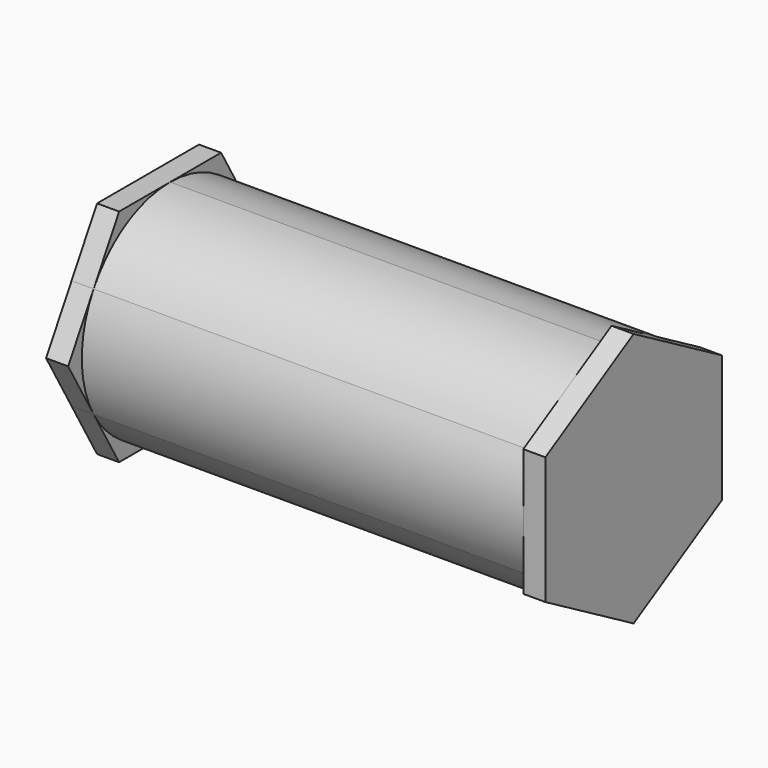
from build123d import *

# Parameters (mm, degrees)
F1_DEPTH = 25.4
F3_DEPTH = 1.27
F4_DEPTH = 1.27


with BuildPart() as f1:
    # F0 (on Right) → F1 (new body)
    with BuildSketch(Plane.YZ):
        with BuildLine():
            ThreePointArc((5.4992613166, -3.1749999956), (6.1336289976, -1.6435009339), (6.35, 0))
            ThreePointArc((6.35, 0), (6.1336289982, 1.6435009317), (5.4992613189, 3.1749999916))
            ThreePointArc((5.4992613189, 3.1749999916), (3.1750000042, 5.4992613116), (0, 6.35))
            ThreePointArc((0, 6.35), (-3.1750000022, 5.4992613128), (-5.4992613166, 3.1749999956))
            ThreePointArc((-5.4992613166, 3.1749999956), (-6.35, 5.57e-08), (-5.4992613723, -3.1749998991))
            ThreePointArc((-5.4992613723, -3.1749998991), (-3.1750000504, -5.4992612849), (0, -6.35))
            ThreePointArc((0, -6.35), (3.1750000022, -5.4992613128), (5.4992613166, -3.1749999956))
        make_face()
    extrude(amount=F1_DEPTH)

    # F2 (on face) → F3 (join)
    with BuildSketch(Plane.YZ.offset(25.4)):
        with BuildLine():
            ThreePointArc((3.1750003445, -5.4992611151), (5.4992614135, -3.1749998278), (6.35, 0))
            ThreePointArc((6.35, 0), (5.4992613234, 3.1749999838), (3.1750000324, 5.4992612953))
            ThreePointArc((3.1750000324, 5.4992612953), (5.57e-08, 6.35), (-3.174999936, 5.499261351))
            ThreePointArc((-3.174999936, 5.499261351), (-5.4992612955, 3.175000032), (-6.35, 0))
            ThreePointArc((-6.35, 0), (-5.4992613963, -3.1749998576), (-3.1750002849, -5.4992611496))
            ThreePointArc((-3.1750002849, -5.4992611496), (3.44e-08, -6.35), (3.1750003445, -5.4992611151))
        make_face()
        with BuildLine():
            Line((6.35, 0), (6.35, 3.6661742094))
            Line((6.35, 3.6661742094), (3.1750000324, 5.4992612953))
            ThreePointArc((3.1750000324, 5.4992612953), (5.4992613234, 3.1749999838), (6.35, 0))
        make_face()
        with BuildLine():
            Line((-6.35, -3.6661742094), (-3.1750002849, -5.4992611496))
            ThreePointArc((-3.1750002849, -5.4992611496), (-5.4992613963, -3.1749998576), (-6.35, 0))
            Line((-6.35, 0), (-6.35, -3.6661742094))
        make_face()
        with BuildLine():
            Line((6.35, -3.6661742094), (6.35, 0))
            ThreePointArc((6.35, 0), (5.4992614135, -3.1749998278), (3.1750003445, -5.4992611151))
            Line((3.1750003445, -5.4992611151), (6.35, -3.6661742094))
        make_face()
        with BuildLine():
            ThreePointArc((-3.174999936, 5.499261351), (5.57e-08, 6.35), (3.1750000324, 5.4992612953))
            Line((3.1750000324, 5.4992612953), (0, 7.3323484187))
            Line((0, 7.3323484187), (-3.174999936, 5.499261351))
        make_face()
        with BuildLine():
            Line((0, -7.3323484187), (3.1750003445, -5.4992611151))
            ThreePointArc((3.1750003445, -5.4992611151), (3.44e-08, -6.35), (-3.1750002849, -5.4992611496))
            Line((-3.1750002849, -5.4992611496), (0, -7.3323484187))
        make_face()
        with BuildLine():
            ThreePointArc((-6.35, 0), (-5.4992612955, 3.175000032), (-3.174999936, 5.499261351))
            Line((-3.174999936, 5.499261351), (-6.35, 3.6661742094))
            Line((-6.35, 3.6661742094), (-6.35, 0))
        make_face()
    extrude(amount=F3_DEPTH)

    # F0 (on Right) → F4 (join)
    with BuildSketch(Plane.YZ):
        with BuildLine():
            ThreePointArc((5.4992613189, 3.1749999916), (6.1336289982, 1.6435009317), (6.35, 0))
            ThreePointArc((6.35, 0), (6.1336289976, -1.6435009339), (5.4992613166, -3.1749999956))
            Line((5.4992613166, -3.1749999956), (7.3323484187, 0))
            Line((7.3323484187, 0), (5.4992613189, 3.1749999916))
        make_face()
        with BuildLine():
            ThreePointArc((-5.4992613723, -3.1749998991), (-6.35, 5.57e-08), (-5.4992613166, 3.1749999956))
            Line((-5.4992613166, 3.1749999956), (-7.3323484187, 0))
            Line((-7.3323484187, 0), (-5.4992613723, -3.1749998991))
        make_face()
        with BuildLine():
            ThreePointArc((0, 6.35), (3.1750000042, 5.4992613116), (5.4992613189, 3.1749999916))
            Line((5.4992613189, 3.1749999916), (3.6661742094, 6.35))
            Line((3.6661742094, 6.35), (0, 6.35))
        make_face()
        with BuildLine():
            Line((3.6661742094, -6.35), (5.4992613166, -3.1749999956))
            ThreePointArc((5.4992613166, -3.1749999956), (3.1750000022, -5.4992613128), (0, -6.35))
            Line((0, -6.35), (3.6661742094, -6.35))
        make_face()
        with BuildLine():
            ThreePointArc((-5.4992613166, 3.1749999956), (-3.1750000022, 5.4992613128), (0, 6.35))
            Line((0, 6.35), (-3.6661742094, 6.35))
            Line((-3.6661742094, 6.35), (-5.4992613166, 3.1749999956))
        make_face()
        with BuildLine():
            Line((-3.6661742094, -6.35), (0, -6.35))
            ThreePointArc((0, -6.35), (-3.1750000504, -5.4992612849), (-5.4992613723, -3.1749998991))
            Line((-5.4992613723, -3.1749998991), (-3.6661742094, -6.35))
        make_face()
        with BuildLine():
            ThreePointArc((5.4992613166, -3.1749999956), (6.1336289976, -1.6435009339), (6.35, 0))
            ThreePointArc((6.35, 0), (6.1336289982, 1.6435009317), (5.4992613189, 3.1749999916))
            ThreePointArc((5.4992613189, 3.1749999916), (3.1750000042, 5.4992613116), (0, 6.35))
            ThreePointArc((0, 6.35), (-3.1750000022, 5.4992613128), (-5.4992613166, 3.1749999956))
            ThreePointArc((-5.4992613166, 3.1749999956), (-6.35, 5.57e-08), (-5.4992613723, -3.1749998991))
            ThreePointArc((-5.4992613723, -3.1749998991), (-3.1750000504, -5.4992612849), (0, -6.35))
            ThreePointArc((0, -6.35), (3.1750000022, -5.4992613128), (5.4992613166, -3.1749999956))
        make_face()
    extrude(amount=-F4_DEPTH)


solid = f1.part
